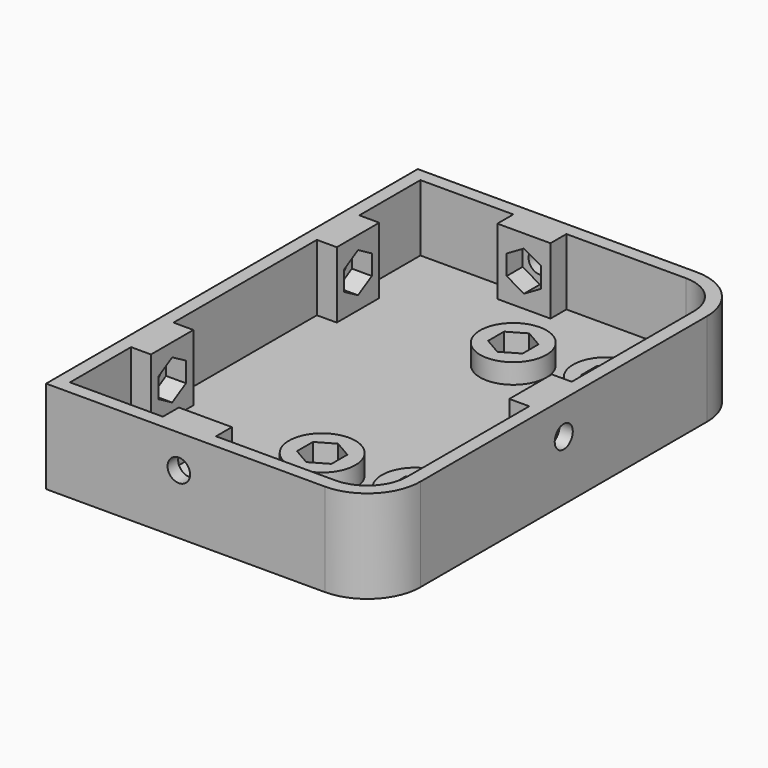
from build123d import *

# Parameters (mm, degrees)
PAD_DEPTH       = 4
PAD001_DEPTH    = 10
SKETCH002_R     = 5
PAD002_DEPTH    = 3
POCKET_DEPTH    = 3
SKETCH004_R     = 1.7
POCKET001_DEPTH = 4
POCKET002_DEPTH = 3
SKETCH006_R     = 1.7
POCKET003_DEPTH = 2
POCKET004_DEPTH = 3
SKETCH008_R     = 1.7
POCKET005_DEPTH = 2
POCKET006_DEPTH = 3
SKETCH010_R     = 1.7
POCKET007_DEPTH = 2
POCKET008_DEPTH = 3
SKETCH012_R     = 1.7
POCKET009_DEPTH = 2


with BuildPart() as part:
    # Sketch → Pad (new body)
    with BuildSketch(Plane.XY):
        with BuildLine():
            Line((0, 0), (42, 0))
            ThreePointArc((42, 0), (47.656854, 2.343146), (50, 8))
            Line((50, 62), (50, 8))
            ThreePointArc((50, 62), (47.656854, 67.656854), (42, 70))
            Line((42, 70), (0, 70))
            Line((0, 70), (0, 0))
        make_face()
    extrude(amount=PAD_DEPTH)

    # Sketch001 → Pad001 (new body)
    with BuildSketch(Plane.XY.offset(4)):
        with BuildLine():
            Line((0, 0), (42, 0))
            ThreePointArc((42, 0), (47.656854, 2.343146), (50, 8))
            Line((50, 62), (50, 8))
            ThreePointArc((50, 62), (47.656854, 67.656854), (42, 70))
            Line((42, 70), (0, 70))
            Line((0, 70), (0, 0))
        make_face()
        with BuildLine():
            ThreePointArc((48, 62), (46.242641, 66.242641), (42, 68))
            Line((42, 68), (24, 68))
            Line((24, 68), (24, 65))
            Line((24, 65), (16, 65))
            Line((16, 65), (16, 68))
            Line((16, 68), (2, 68))
            Line((2, 68), (2, 56.5))
            Line((2, 56.5), (5, 56.5))
            Line((5, 56.5), (5, 48.5))
            Line((5, 48.5), (2, 48.5))
            Line((2, 48.5), (2, 21.5))
            Line((2, 21.5), (5, 21.5))
            Line((5, 21.5), (5, 13.5))
            Line((5, 13.5), (2, 13.5))
            Line((2, 13.5), (2, 2))
            Line((2, 2), (16, 2))
            Line((16, 2), (16, 5))
            Line((16, 5), (24, 5))
            Line((24, 5), (24, 2))
            Line((24, 2), (42, 2))
            ThreePointArc((42, 2), (46.242641, 3.757359), (48, 8))
            Line((48, 31), (48, 8))
            Line((45, 31), (48, 31))
            Line((45, 39), (45, 31))
            Line((48, 39), (45, 39))
            Line((48, 62), (48, 39))
        make_face(mode=Mode.SUBTRACT)
    extrude(amount=PAD001_DEPTH)

    # Sketch002 → Pad002 (new body)
    with BuildSketch(Plane.XY.offset(4)):
        with Locations((28, 53)):
            Circle(SKETCH002_R)
        with Locations((42, 53)):
            Circle(SKETCH002_R)
        with Locations((28, 17)):
            Circle(SKETCH002_R)
        with Locations((42, 17)):
            Circle(SKETCH002_R)
    extrude(amount=PAD002_DEPTH)

    # Sketch003 → Pocket (cut)
    with BuildSketch(Plane.XY.offset(7)):
        Polygon((28, 50), (30.598076, 51.5), (30.598076, 54.5), (28, 56), (25.401924, 54.5), (25.401924, 51.5), align=None)
        Polygon((30.598076, 15.5), (30.598076, 18.5), (28, 20), (25.401924, 18.5), (25.401924, 15.5), (28, 14), align=None)
        Polygon((44.598076, 51.5), (44.598076, 54.5), (42, 56), (39.401924, 54.5), (39.401924, 51.5), (42, 50), align=None)
        Polygon((44.598076, 15.5), (44.598076, 18.5), (42, 20), (39.401924, 18.5), (39.401924, 15.5), (42, 14), align=None)
    extrude(amount=-POCKET_DEPTH, mode=Mode.SUBTRACT)

    # Sketch004 → Pocket001 (cut)
    with BuildSketch(Plane.XY.offset(4)):
        with Locations((28, 53)):
            Circle(SKETCH004_R)
        with Locations((42, 53)):
            Circle(SKETCH004_R)
        with Locations((28, 17)):
            Circle(SKETCH004_R)
        with Locations((42, 17)):
            Circle(SKETCH004_R)
    extrude(amount=-POCKET001_DEPTH, mode=Mode.SUBTRACT)

    # Sketch005 → Pocket002 (cut)
    with BuildSketch(Plane.YZ.offset(5)):
        Polygon((20.098076, 7.5), (20.098076, 10.5), (17.5, 12), (14.901924, 10.5), (14.901924, 7.5), (17.5, 6), align=None)
        Polygon((55.098076, 7.5), (55.098076, 10.5), (52.5, 12), (49.901924, 10.5), (49.901924, 7.5), (52.5, 6), align=None)
    extrude(amount=-POCKET002_DEPTH, mode=Mode.SUBTRACT)

    # Sketch006 → Pocket003 (cut)
    with BuildSketch(Plane.YZ.offset(2)):
        with Locations((17.5, 9)):
            Circle(SKETCH006_R)
        with Locations((52.5, 9)):
            Circle(SKETCH006_R)
    extrude(amount=-POCKET003_DEPTH, mode=Mode.SUBTRACT)

    # Sketch007 → Pocket004 (cut)
    with BuildSketch(Plane.XZ.offset(-65)):
        Polygon((22.598076, 7.5), (22.598076, 10.5), (20, 12), (17.401924, 10.5), (17.401924, 7.5), (20, 6), align=None)
    extrude(amount=-POCKET004_DEPTH, mode=Mode.SUBTRACT)

    # Sketch008 → Pocket005 (cut)
    with BuildSketch(Plane.XZ.offset(-68)):
        with Locations((20, 9)):
            Circle(SKETCH008_R)
    extrude(amount=-POCKET005_DEPTH, mode=Mode.SUBTRACT)

    # Sketch009 → Pocket006 (cut)
    with BuildSketch(Plane(origin=(45, 0, 0), x_dir=(0, -1, 0), z_dir=(-1, 0, 0))):
        Polygon((-37.598076, 7.5), (-35, 6), (-32.401924, 7.5), (-32.401924, 10.5), (-35, 12), (-37.598076, 10.5), align=None)
    extrude(amount=-POCKET006_DEPTH, mode=Mode.SUBTRACT)

    # Sketch010 → Pocket007 (cut)
    with BuildSketch(Plane(origin=(48, 0, 0), x_dir=(0, -1, 0), z_dir=(-1, 0, 0))):
        with Locations((-35, 9)):
            Circle(SKETCH010_R)
    extrude(amount=-POCKET007_DEPTH, mode=Mode.SUBTRACT)

    # Sketch011 → Pocket008 (cut)
    with BuildSketch(Plane(origin=(0, 5, 0), x_dir=(-1, 0, 0), z_dir=(0, 1, 0))):
        Polygon((-17.401924, 7.5), (-17.401924, 10.5), (-20, 12), (-22.598076, 10.5), (-22.598076, 7.5), (-20, 6), align=None)
    extrude(amount=-POCKET008_DEPTH, mode=Mode.SUBTRACT)

    # Sketch012 → Pocket009 (cut)
    with BuildSketch(Plane(origin=(0, 2, 0), x_dir=(-1, 0, 0), z_dir=(0, 1, 0))):
        with Locations((-20, 9)):
            Circle(SKETCH012_R)
    extrude(amount=-POCKET009_DEPTH, mode=Mode.SUBTRACT)


solid = part.part
